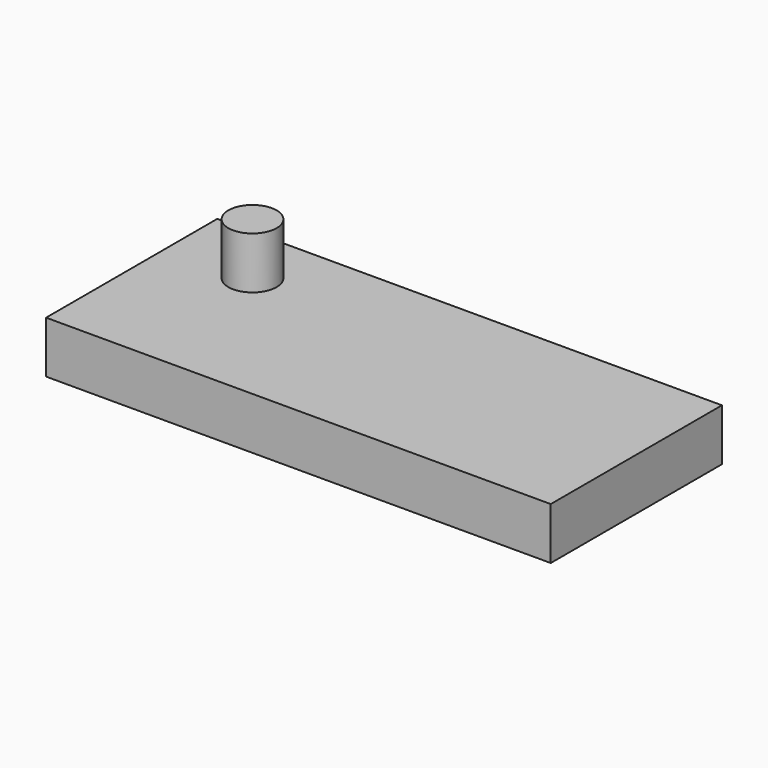
from build123d import *

# Parameters (mm, degrees)
F0_W     = 246.912122
F0_H     = 104.684964
F1_DEPTH = 25.4
F3_D     = 6.35
F2_R     = 11.813862
F4_DEPTH = 25.4


with BuildPart() as f1:
    # F0 (on Top) → F1 (new body)
    with BuildSketch(Plane.XY):
        with Locations((0.999786, 4.636642)):
            Rectangle(F0_W, F0_H)
    extrude(amount=F1_DEPTH)

    # F3 (through all)
    with Locations(Plane.XY.offset(25.4)):
        with Locations((-81.271335, 27.049223)):
            Hole(F3_D / 2)

    # F2 (on face) → F4 (join)
    with BuildSketch(Plane.XY.offset(25.4)):
        with Locations((-81.271335, 27.049223)):
            Circle(F2_R)
    extrude(amount=F4_DEPTH)


solid = f1.part
